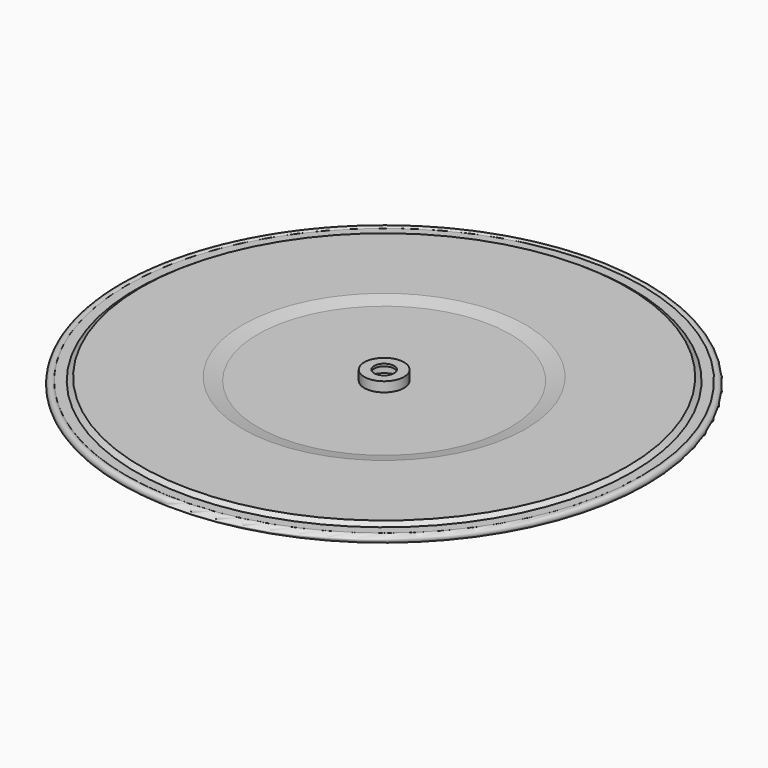
from build123d import *


with BuildPart() as f1:
    # F0 (on Front) → F1 (revolve)
    with BuildSketch(Plane.XZ):
        with BuildLine():
            ThreePointArc((54.518922, 11.3116), (55.02137, 11.387915), (54.85679, 10.907091))
            Line((54.85679, 10.907091), (54.85679, 10.393243))
            ThreePointArc((54.85679, 10.393243), (55.537675, 11.518223), (54.257587, 11.819149))
            Line((54.257587, 11.819149), (52.20834, 11.815607))
            Line((52.20834, 11.815607), (51.160463, 12.521557))
            Line((51.160463, 12.521557), (29.771078, 12.521557))
            Line((29.771078, 12.521557), (26.567636, 11.815339))
            Line((26.567636, 11.815339), (4.181073, 11.815339))
            Line((4.181073, 11.815339), (4.181073, 13.884053))
            Line((4.181073, 13.884053), (2.105932, 13.884053))
            Line((2.105932, 13.884053), (2.105932, 13.376053))
            Line((2.105932, 13.376053), (3.673073, 13.376053))
            Line((3.673073, 13.376053), (3.673073, 11.307339))
            Line((3.673073, 11.307339), (26.622967, 11.307339))
            Line((26.622967, 11.307339), (29.82641, 12.013557))
            Line((29.82641, 12.013557), (51.005307, 12.013557))
            Line((51.005307, 12.013557), (52.053582, 11.307339))
            Line((52.053582, 11.307339), (54.518922, 11.3116))
        make_face()
    revolve(axis=Axis((0, 0, 13.630053), (0, 0, -1)))


solid = f1.part
